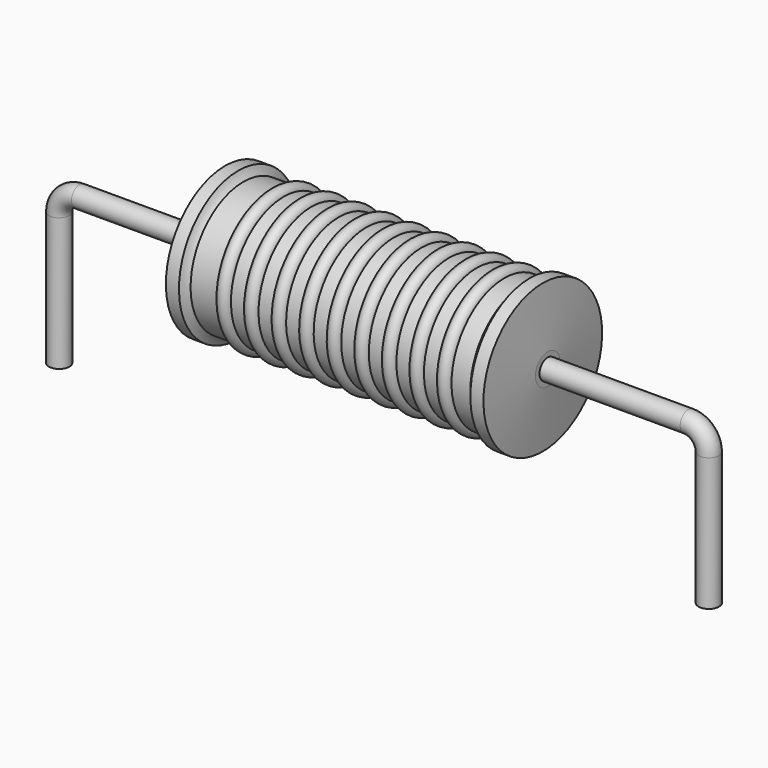
from build123d import *

# Parameters (mm, degrees)
SKETCH_R = 0.4


with BuildPart() as sweep_body:
    # Sweep: sweep along a path in Sketch001
    with BuildLine(Plane.XZ) as sweep_path:
        Line((0, -3), (0, 2.2))
        ThreePointArc((0, 2.2), (0.234311, 2.765682), (0.799991, 3))
        Line((0.799991, 3), (24.6, 3))
        ThreePointArc((24.6, 3), (25.165685, 2.765685), (25.4, 2.2))
        Line((25.4, 2.2), (25.4, -3))
    # Sketch → Sweep (sweep)
    with BuildSketch(Plane.XY.offset(-2)):
        Circle(SKETCH_R)
    sweep(path=sweep_path.line)


with BuildPart() as revolution:
    # Sketch002 → Revolution (revolve)
    with BuildSketch(Plane.XZ):
        with BuildLine():
            Line((6.492, 5.9), (7.004, 5.9))
            ThreePointArc((7.004, 5.9), (7.085878, 5.729406), (7.202, 5.58))
            Line((7.202, 5.58), (18.14, 5.58))
            ThreePointArc((18.14, 5.58), (18.28449, 5.726808), (18.396, 5.9))
            Line((18.396, 5.9), (18.908, 5.9))
            ThreePointArc((19.1, 3.6), (19.005983, 4.750166), (18.908, 5.9))
            Line((19.1, 3), (19.1, 3.6))
            Line((6.3, 3), (19.1, 3))
            Line((6.3, 3), (6.3, 3.6))
            ThreePointArc((6.492, 5.9), (6.394017, 4.750166), (6.3, 3.6))
        make_face()
    revolve(axis=Axis((6.3, 0, 3), (1, 0, 0)))


with BuildPart() as obj1:
    # Sketch003 → Revolution001 (revolve)
    with BuildSketch(Plane.XZ):
        with BuildLine():
            ThreePointArc((8.785895, 5.5288), (8.516421, 5.798274), (8.246947, 5.5288))
            Line((7.708, 5.5288), (8.246947, 5.5288))
            Line((7.708, 5.5288), (7.708, 4.9488))
            Line((7.708, 4.9488), (17.948, 4.9488))
            Line((17.948, 4.9488), (17.948, 5.5288))
            Line((17.409053, 5.5288), (17.948, 5.5288))
            ThreePointArc((17.409053, 5.5288), (17.139579, 5.798274), (16.870105, 5.5288))
            Line((16.331158, 5.5288), (16.870105, 5.5288))
            ThreePointArc((16.331158, 5.5288), (16.061684, 5.798274), (15.792211, 5.5288))
            Line((15.253263, 5.5288), (15.792211, 5.5288))
            ThreePointArc((15.253263, 5.5288), (14.983789, 5.798274), (14.714316, 5.5288))
            Line((14.175368, 5.5288), (14.714316, 5.5288))
            ThreePointArc((14.175368, 5.5288), (13.905895, 5.798274), (13.636421, 5.5288))
            Line((13.097474, 5.5288), (13.636421, 5.5288))
            ThreePointArc((13.097474, 5.5288), (12.828, 5.798274), (12.558526, 5.5288))
            Line((12.019579, 5.5288), (12.558526, 5.5288))
            ThreePointArc((12.019579, 5.5288), (11.750105, 5.798274), (11.480632, 5.5288))
            Line((10.941684, 5.5288), (11.480632, 5.5288))
            ThreePointArc((10.941684, 5.5288), (10.672211, 5.798274), (10.402737, 5.5288))
            Line((9.863789, 5.5288), (10.402737, 5.5288))
            ThreePointArc((9.863789, 5.5288), (9.594316, 5.798274), (9.324842, 5.5288))
            Line((8.785895, 5.5288), (9.324842, 5.5288))
        make_face()
    revolve(axis=Axis((6.62, 0, 3), (1, 0, 0)))

    # obj1: union Sweep body, Revolution
    add(sweep_body.part)
    add(revolution.part)


solid = obj1.part
